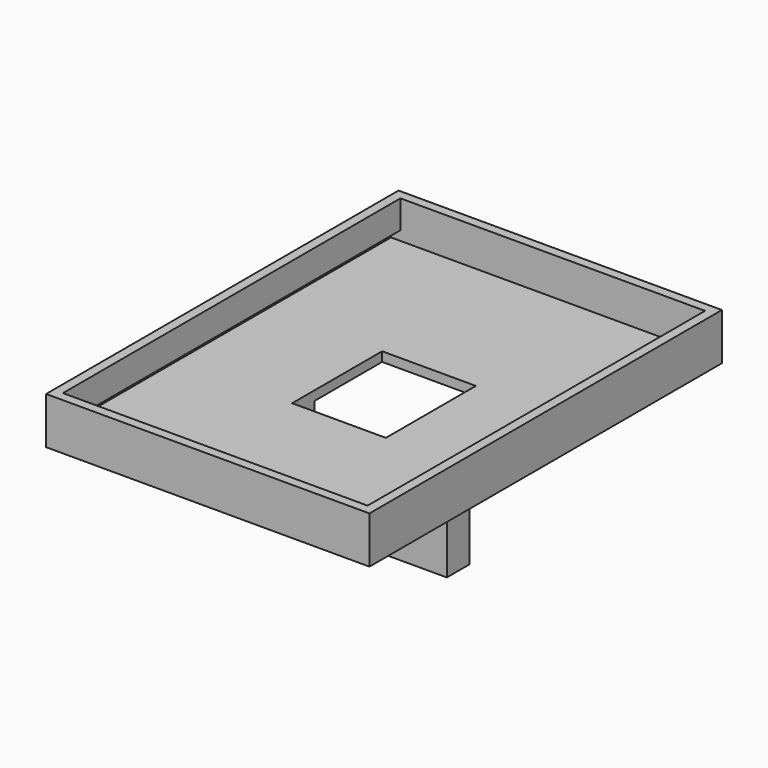
from build123d import *

# Parameters (mm, degrees)
SKETCH_W             = 69
SKETCH_H             = 94
SKETCH_W_2           = 65
SKETCH_H_2           = 90
PAD_DEPTH            = 10
SKETCH001_W          = 65
SKETCH001_H          = 90
PAD001_DEPTH         = 2
SKETCH002_W          = 90
SKETCH002_H          = 2
POCKET_DEPTH         = 2.001
SKETCH003_W          = 20
SKETCH003_H          = 24
POCKET001_DEPTH      = 0.001
POCKET001_DEPTH_BACK = -10.001
SKETCH004_W          = 13
SKETCH004_H          = 6
PAD002_DEPTH         = 20


with BuildPart() as part:
    # Sketch → Pad (new body)
    with BuildSketch(Plane.XY):
        with Locations((32.5, 45)):
            Rectangle(SKETCH_W, SKETCH_H)
        with Locations((32.5, 45)):
            Rectangle(SKETCH_W_2, SKETCH_H_2, mode=Mode.SUBTRACT)
    extrude(amount=PAD_DEPTH)

    # Sketch001 → Pad001 (join)
    with BuildSketch(Plane.XY):
        with Locations((32.5, 45)):
            Rectangle(SKETCH001_W, SKETCH001_H)
    extrude(amount=PAD001_DEPTH)

    # Sketch002 → Pocket (cut, through all)
    with BuildSketch(Plane.YZ):
        with Locations((45, 3)):
            Rectangle(SKETCH002_W, SKETCH002_H)
    extrude(amount=-POCKET_DEPTH, mode=Mode.SUBTRACT)

    # Sketch003 → Pocket001 (cut, two sides)
    with BuildSketch(Plane.XY) as pocket001_sk:
        with Locations((32.5, 45)):
            Rectangle(SKETCH003_W, SKETCH003_H)
    extrude(amount=-POCKET001_DEPTH, mode=Mode.SUBTRACT)
    extrude(pocket001_sk.sketch, amount=-POCKET001_DEPTH_BACK, mode=Mode.SUBTRACT)

    # Sketch004 → Pad002 (join)
    with BuildSketch(Plane.XY):
        with Locations((16, 36)):
            Rectangle(SKETCH004_W, SKETCH004_H)
        with Locations((49, 36)):
            Rectangle(SKETCH004_W, SKETCH004_H)
    extrude(amount=-PAD002_DEPTH)


solid = part.part
